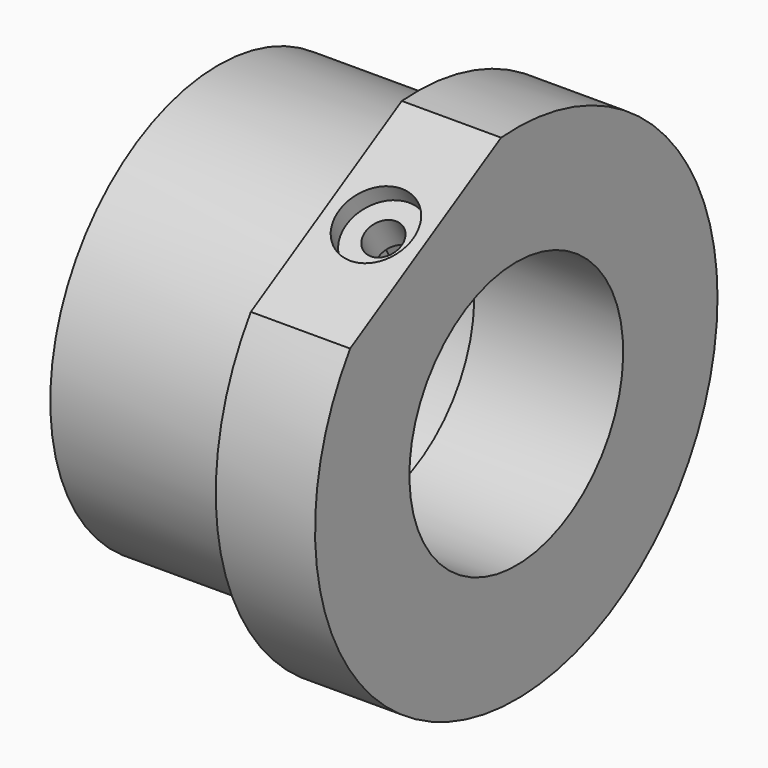
from build123d import *

# Parameters (mm, degrees)
SKETCH147_W          = 50.8
SKETCH147_H          = 7
POCKET092_DEPTH      = 30.001
POCKET092_DEPTH_BACK = 6.001
SKETCH144_R          = 2.2
POCKET093_DEPTH      = 41.528172
POCKET094_DEPTH      = 21.15
SKETCH148_R          = 4.5
POCKET095_DEPTH      = 5


with BuildPart() as part:
    # Sketch143 → Revolution004 (revolve)
    with BuildSketch(Plane.XZ):
        Polygon((0, 25.4), (0, 30.4), (12, 30.4), (12, 16.15), (-6, 16.15), (-6, 22.4), (-24, 22.4), (-24, 25.4), align=None)
    revolve(axis=Axis((0, 0, 0), (1, 0, 0)))

    # Sketch147 (on DatumPlane) → Pocket092 (cut, two sides)
    with BuildSketch(Plane(origin=(6, 0, 0), x_dir=(0, -0.866025, -0.5), z_dir=(1, 0, 0))) as pocket092_sk:
        with Locations((0, -30.9)):
            Rectangle(SKETCH147_W, SKETCH147_H)
    extrude(amount=-POCKET092_DEPTH, mode=Mode.SUBTRACT)
    extrude(pocket092_sk.sketch, amount=POCKET092_DEPTH_BACK, mode=Mode.SUBTRACT)

    # Sketch144 (on DatumPlane) → Pocket093 (cut, through all)
    with BuildSketch(Plane(origin=(6, 0, 0), x_dir=(1, 0, 0), z_dir=(0, 0.5, -0.866025))):
        Circle(SKETCH144_R)
    extrude(amount=-POCKET093_DEPTH, mode=Mode.SUBTRACT)

    # Sketch145 (on DatumPlane) → Pocket094 (cut)
    with BuildSketch(Plane(origin=(6, 0, 0), x_dir=(1, 0, 0), z_dir=(0, 0.5, -0.866025))):
        Polygon((3.65, -2.107328), (3.65, 2.107328), (0, 4.214657), (-3.65, 2.107328), (-3.65, -2.107328), (0, -4.214657), align=None)
    extrude(amount=-POCKET094_DEPTH, mode=Mode.SUBTRACT)

    # Sketch148 (on DatumPlane) → Pocket095 (cut)
    with BuildSketch(Plane(origin=(6, -12.575, 21.780539), x_dir=(1, 0, 0), z_dir=(0, 0.5, -0.866025))):
        Circle(SKETCH148_R)
    extrude(amount=-POCKET095_DEPTH, mode=Mode.SUBTRACT)


with BuildPart() as part_1:
    # Body022029 placement: moved
    add(part.part.moved(Location((194, 0, 834))))


solid = part_1.part
